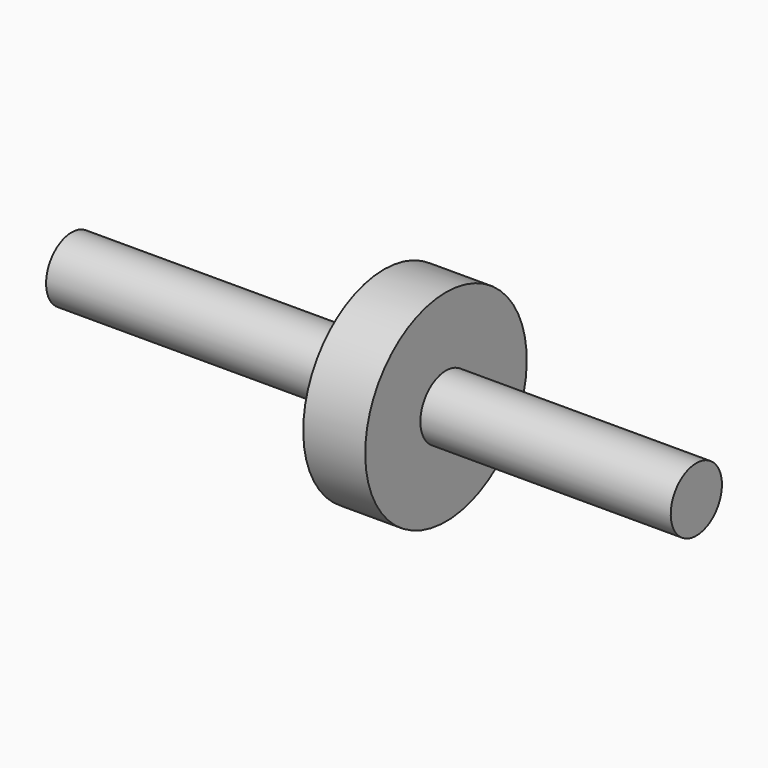
from build123d import *

# Parameters (mm, degrees)
F0_W = 14.132583
F0_H = 15.72367


with BuildPart() as f1:
    # F0 (on Front) → F1 (revolve)
    with BuildSketch(Plane.XZ):
        with Locations((6.544825, 15.158887)):
            Rectangle(F0_W, F0_H)
    revolve(axis=Axis((-0.521466, 0, 0), (-1, 0, 0)))


with BuildPart() as f2:
    # F0 (on Front) → F2 (revolve)
    with BuildSketch(Plane.XZ):
        Polygon((70.703015, 0), (70.703015, 7.297052), (13.611117, 7.297052), (-0.521466, 7.297052), (-71.745947, 7.297052), (-71.745947, 0), align=None)
        with Locations((6.544825, 15.158887)):
            Rectangle(F0_W, F0_H)
    revolve(axis=Axis((-0.521466, 0, 0), (-1, 0, 0)))


solid = Compound([f1.part, f2.part])
